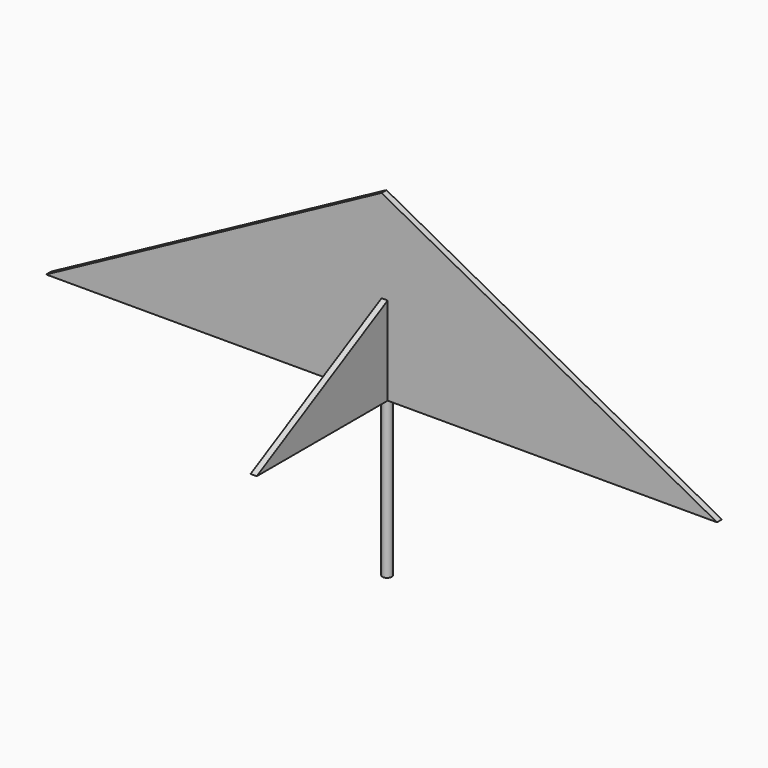
from build123d import *

# Parameters (mm, degrees)
F2_DEPTH = 1
F3_DEPTH = 1
F4_R     = 0.75
F5_DEPTH = 25.4


with BuildPart() as f2:
    # F0 (on Front) → F2 (new body)
    with BuildSketch(Plane.XZ):
        Polygon((-54.62, 0), (0, 0), (0, 29.45), align=None)
        Polygon((0, 29.45), (0, 0), (54.62, 0), align=None)
    extrude(amount=-F2_DEPTH)

    # F1 (on Right) → F3 (join)
    with BuildSketch(Plane.YZ):
        Polygon((0, 14.36), (0, 0), (26.66, 0), align=None)
        Polygon((-26.66, 0), (0, 0), (0, 14.36), align=None)
    extrude(amount=F3_DEPTH)

    # F4 (on Top) → F5 (join)
    with BuildSketch(Plane.XY):
        with Locations((0.486322, 0.526076)):
            Circle(F4_R)
    extrude(amount=-F5_DEPTH)


solid = f2.part
